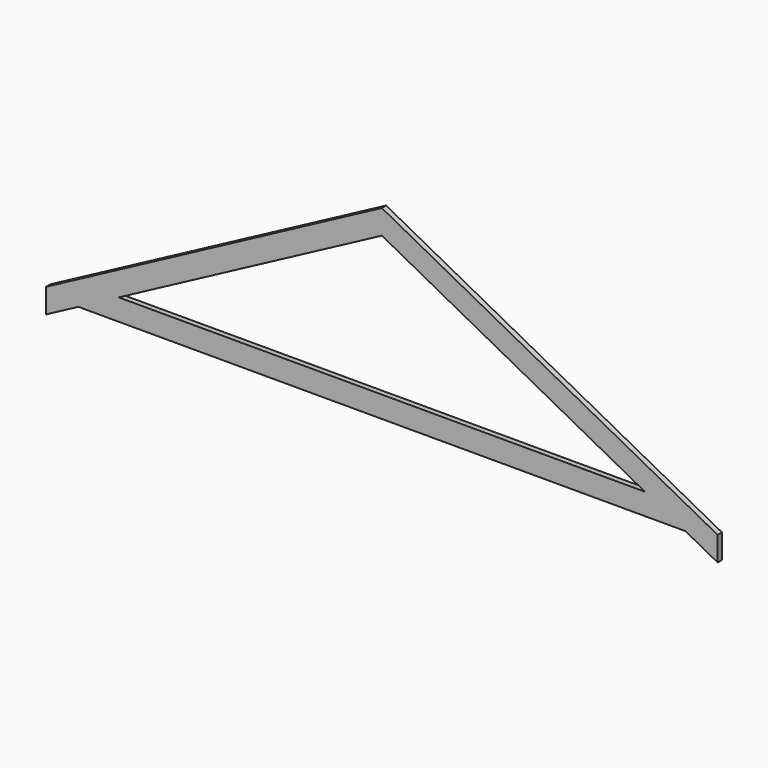
from build123d import *

# Parameters (mm, degrees)
F1_DEPTH = 50


with BuildPart() as f1:
    # F0 (on Front) → F1 (new body)
    with BuildSketch(Plane.XZ):
        Polygon((-3125, -59.512829), (-2825, 100), (2825, 100), (3125, -59.512829), (3125, 167.001181), (0, 1828.593155), (-3125, 167.001181), align=None)
        Polygon((2448.854707, 300), (-2448.854707, 300), (0, 1602.079144), align=None, mode=Mode.SUBTRACT)
        Polygon((-3125, -59.512829), (-2825, 100), (2825, 100), (3125, -59.512829), (3125, 167.001181), (0, 1828.593155), (-3125, 167.001181), align=None)
        Polygon((2448.854707, 300), (-2448.854707, 300), (0, 1602.079144), align=None, mode=Mode.SUBTRACT)
    extrude(amount=F1_DEPTH)


solid = f1.part
